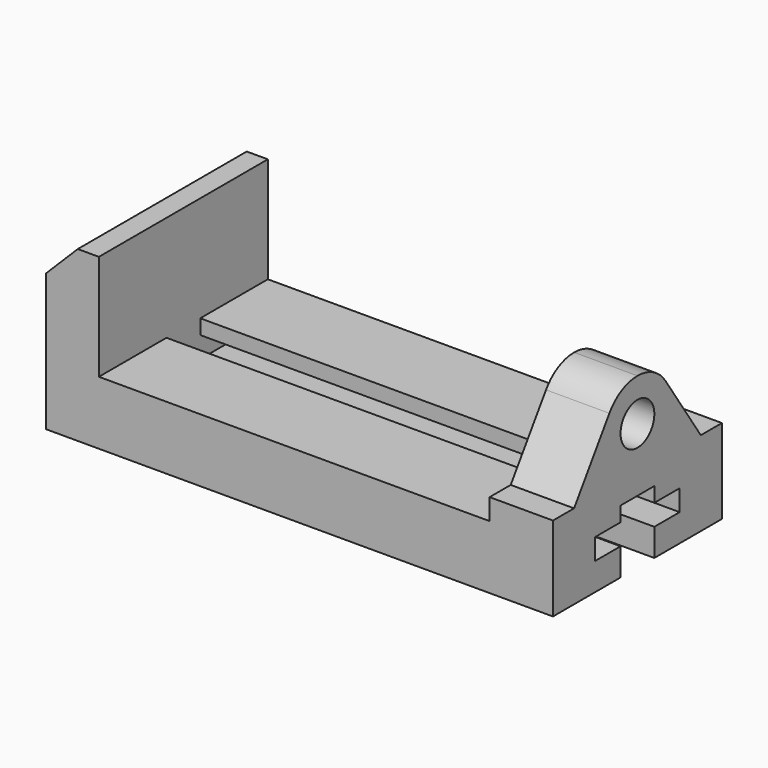
from build123d import *

# Parameters (mm, degrees)
F1_DEPTH = 127
F2_R     = 12.7
F3_DEPTH = 273.05
F5_DEPTH = 127.001


with BuildPart() as f1:
    # F0 (on Front) → F1 (new body)
    with BuildSketch(Plane.XZ):
        Polygon((0, 101.6), (0, 0), (304.8, 0), (304.8, 101.6), (266.7, 101.6), (266.7, 38.1), (31.75, 38.1), (31.75, 101.6), align=None)
    extrude(amount=F1_DEPTH)

    # F2 (on face) → F3 (cut)
    with BuildSketch(Plane.YZ.offset(304.8)):
        with Locations((-63.5, 76.2)):
            Circle(F2_R)
        with BuildLine():
            Line((-127, 50.8), (-111.125, 50.8))
            Line((-111.125, 50.8), (-84.593426, 90.350173))
            ThreePointArc((-84.593426, 90.350173), (-75.452941, 98.611765), (-63.5, 101.6))
            Line((-63.5, 101.6), (-127, 101.6))
            Line((-127, 101.6), (-127, 50.8))
        make_face()
        with BuildLine():
            Line((0, 101.6), (-63.5, 101.6))
            ThreePointArc((-63.5, 101.6), (-51.547059, 98.611765), (-42.406574, 90.350173))
            Line((-42.406574, 90.350173), (-15.875, 50.8))
            Line((-15.875, 50.8), (0, 50.8))
            Line((0, 50.8), (0, 101.6))
        make_face()
        Polygon((-76.2, 16.51), (-76.2, 0), (-50.8, 0), (-50.8, 16.51), (-31.75, 16.51), (-31.75, 29.21), (-50.8, 29.21), (-50.8, 38.1), (-76.2, 38.1), (-76.2, 29.21), (-95.25, 29.21), (-95.25, 16.51), align=None)
    extrude(amount=-F3_DEPTH, mode=Mode.SUBTRACT)

    # F4 (on face) → F5 (cut, through all)
    with BuildSketch(Plane.XZ.offset(127)):
        Polygon((0, 101.6), (0, 82.55), (19.05, 101.6), align=None)
    extrude(amount=-F5_DEPTH, mode=Mode.SUBTRACT)


solid = f1.part
